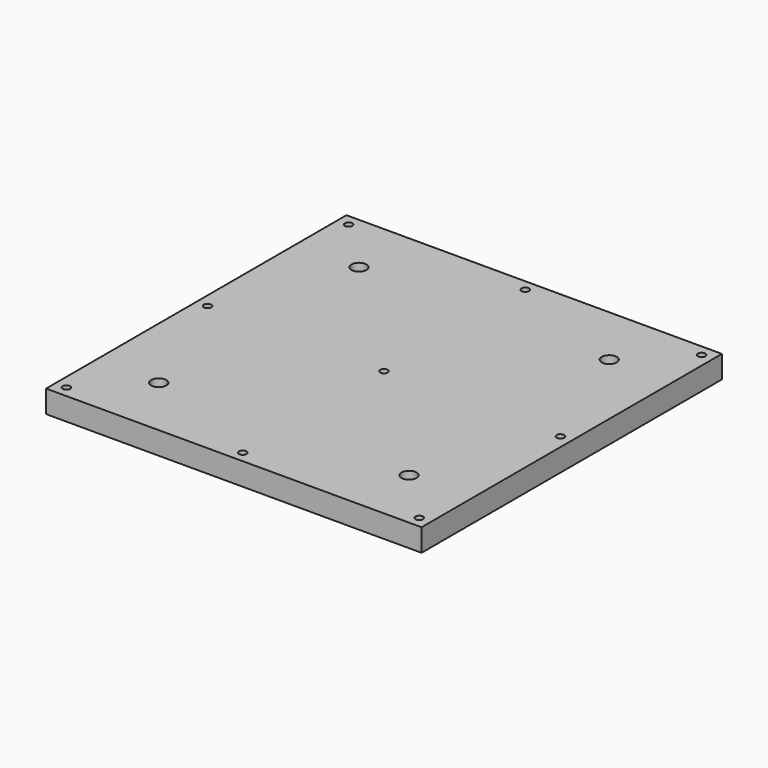
from build123d import *

# Parameters (mm, degrees)
F0_W     = 150
F0_H     = 150
F1_DEPTH = 9
F2_R     = 3
F3_DEPTH = 9.001
F4_R     = 1.5
F5_DEPTH = 9.001
F6_R     = 3
F7_DEPTH = 3


with BuildPart() as f1:
    # F0 (on Top) → F1 (new body)
    with BuildSketch(Plane.XY):
        with Locations((-74.065436, -102.650428)):
            Rectangle(F0_W, F0_H)
    extrude(amount=F1_DEPTH)

    # F2 (on face) → F3 (cut, through all)
    with BuildSketch(Plane.XY.offset(9)):
        with Locations((-124.065436, -52.650428)):
            Circle(F2_R)
        with Locations((-124.065436, -152.650428)):
            Circle(F2_R)
        with Locations((-24.065436, -152.650428)):
            Circle(F2_R)
        with Locations((-24.065436, -52.650428)):
            Circle(F2_R)
    extrude(amount=-F3_DEPTH, mode=Mode.SUBTRACT)

    # F4 (on face) → F5 (cut, through all)
    with BuildSketch(Plane(origin=(0, 0, 0), x_dir=(1, 0, 0), z_dir=(0, 0, -1))):
        with Locations((-144.565436, 173.150428)):
            Circle(F4_R)
        with Locations((-74.065436, 173.150428)):
            Circle(F4_R)
        with Locations((-3.565436, 173.150428)):
            Circle(F4_R)
        with Locations((-3.565436, 102.650428)):
            Circle(F4_R)
        with Locations((-3.565436, 32.150428)):
            Circle(F4_R)
        with Locations((-74.065436, 32.150428)):
            Circle(F4_R)
        with Locations((-144.565436, 32.150428)):
            Circle(F4_R)
        with Locations((-144.565436, 102.650428)):
            Circle(F4_R)
        with Locations((-74.065436, 102.650428)):
            Circle(F4_R)
    extrude(amount=-F5_DEPTH, mode=Mode.SUBTRACT)

    # F6 (on face) → F7 (cut)
    with BuildSketch(Plane(origin=(0, 0, 0), x_dir=(1, 0, 0), z_dir=(0, 0, -1))):
        with Locations((-144.565436, 173.150428)):
            Circle(F6_R)
        with Locations((-74.065436, 173.150428)):
            Circle(F6_R)
        with Locations((-3.565436, 173.150428)):
            Circle(F6_R)
        with Locations((-3.565436, 102.650428)):
            Circle(F6_R)
        with Locations((-74.065436, 102.650428)):
            Circle(F6_R)
        with Locations((-144.565436, 102.650428)):
            Circle(F6_R)
        with Locations((-144.565436, 32.150428)):
            Circle(F6_R)
        with Locations((-74.065436, 32.150428)):
            Circle(F6_R)
        with Locations((-3.565436, 32.150428)):
            Circle(F6_R)
    extrude(amount=-F7_DEPTH, mode=Mode.SUBTRACT)


solid = f1.part
